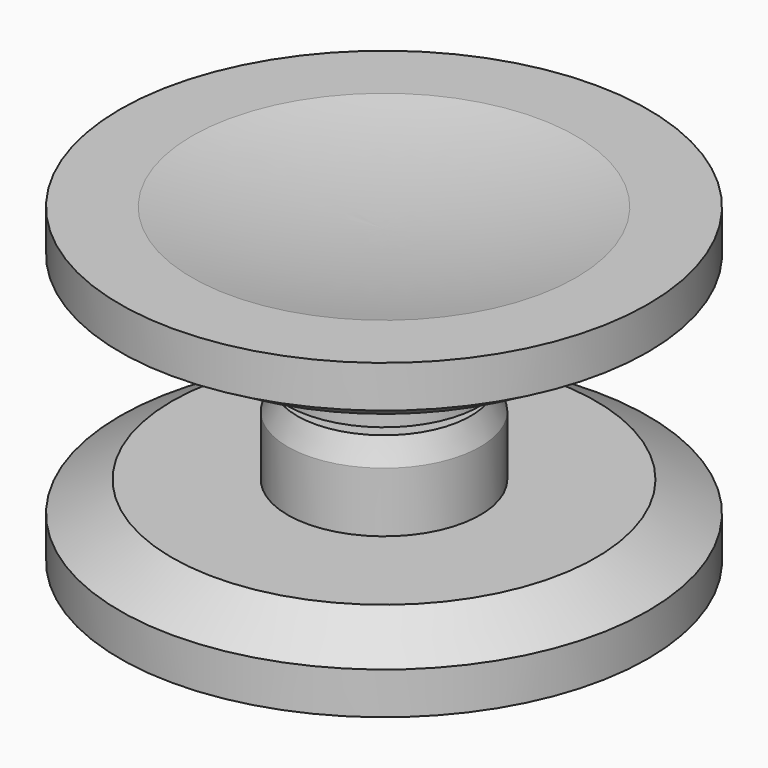
from build123d import *


with BuildPart() as f3:
    # F1 (on Front) → F3 (revolve)
    with BuildSketch(Plane.XZ):
        with BuildLine():
            Line((-4.0132, 3.5), (-4.0132, 0.5))
            Line((-4.0132, 0.5), (-2, 0.5))
            Line((-2, 0.5), (-2, -1.25))
            Line((-2, -1.25), (-2.5, -1.25))
            Line((-2.5, -1.25), (-2.2, -2.75))
            Line((-2.2, -2.75), (0, -2.75))
            Line((0, -2.75), (0, 5.7))
            ThreePointArc((0, 5.7), (-4.01995, 5.900498), (-8, 6.5))
            Line((-8, 6.5), (-11, 6.5))
            Line((-11, 6.5), (-11, 4.75))
            Line((-11, 4.75), (-8.834936, 3.5))
            Line((-8.834936, 3.5), (-4.0132, 3.5))
        make_face()
    revolve(axis=Axis((0, 0, 1.475), (0, 0, 1)))


with BuildPart() as f4:
    # F2 (on Front) → F4 (revolve)
    with BuildSketch(Plane.XZ):
        with BuildLine():
            Line((-3.6132, 0), (-4.0132, -1))
            Line((-4.0132, -1), (-4.0132, -3.5))
            Line((-4.0132, -3.5), (-8.834936, -3.5))
            Line((-8.834936, -3.5), (-11, -4.75))
            Line((-11, -4.75), (-11, -6.5))
            Line((-11, -6.5), (-8, -6.5))
            ThreePointArc((-8, -6.5), (-4.01995, -5.900498), (0, -5.7))
            Line((0, -5.7), (0, -3.25))
            Line((0, -3.25), (-2.5, -3.25))
            Line((-2.5, -3.25), (-2.5, -1))
            Line((-2.5, -1), (-2.25, -1))
            Line((-2.25, -1), (-2.25, 0))
            Line((-2.25, 0), (-3.6132, 0))
        make_face()
    revolve(axis=Axis((0, 0, -4.475), (0, 0, 1)))


solid = Compound([f3.part, f4.part])
